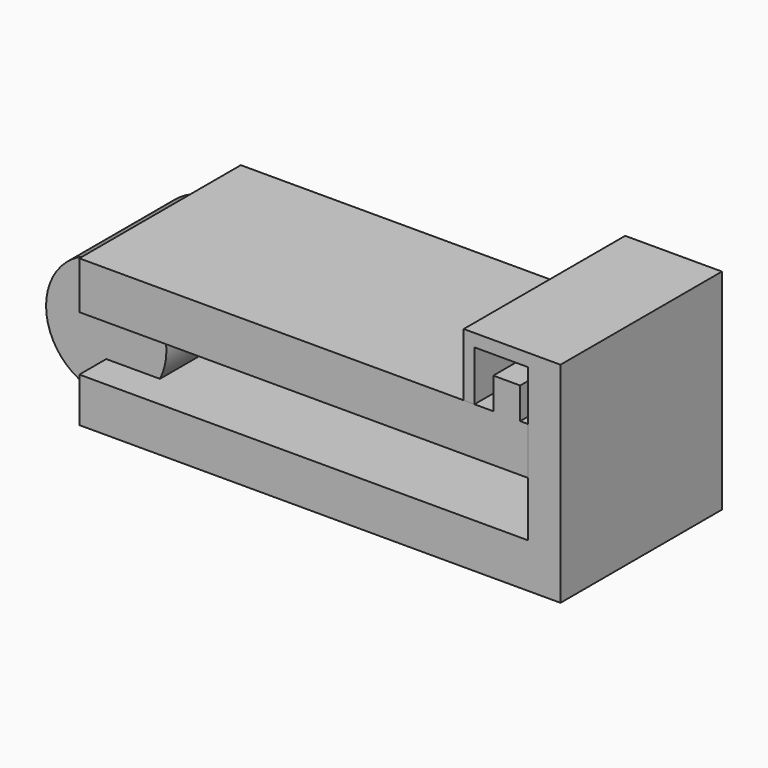
from build123d import *

# Parameters (mm, degrees)
F1_DEPTH = 12.7
F0_W     = 10.1497806609
F0_H     = 2.3909639567
F0_W_2   = 6.0898587108
F2_DEPTH = 19.05
F0_W_3   = 5.0748903304
F0_H_2   = 5.9276018292
F3_DEPTH = 19.05


with BuildPart() as f1:
    # F0 (on Front) → F1 (new body, symmetric)
    with BuildSketch(Plane.XZ):
        with BuildLine():
            ThreePointArc((-48.2114478946, 16.5032624805), (-59.5725855396, 5.1421248354), (-48.2114478946, -6.2190128097))
            Line((-48.2114478946, -6.2190128097), (-48.2114478946, 0))
            Line((-48.2114478946, 0), (-38.0806038642, 0))
            ThreePointArc((-38.0806038642, 0), (-37.1621637078, 2.49849711), (-36.8503102495, 5.1421248354))
            ThreePointArc((-36.8503102495, 5.1421248354), (-37.1740146519, 7.8348030569), (-38.1266817241, 10.3740403429))
            Line((-38.1266817241, 10.3740403429), (-48.2114478946, 10.3740403429))
            Line((-48.2114478946, 10.3740403429), (-48.2114478946, 16.5032624805))
        make_face()
    extrude(amount=F1_DEPTH, both=True)

    # F0 (on Front) → F2 (join, symmetric)
    with BuildSketch(Plane.XZ):
        with BuildLine():
            Line((-48.2114478946, -6.2190128097), (-48.2114478946, -8.4030567668))
            Line((-48.2114478946, -8.4030567668), (36.5392118692, -8.4030567668))
            Line((36.5392118692, -8.4030567668), (36.5392118692, 0))
            Line((36.5392118692, 0), (-38.0806038642, 0))
            ThreePointArc((-38.0806038642, 0), (-42.2677512104, -4.5402260319), (-48.2114478946, -6.2190128097))
        make_face()
        Polygon((36.5392118692, 0), (36.5392118692, -8.4030567668), (42.62907058, -8.4030567668), (42.62907058, 28.7860110402), (36.5392118692, 28.7860110402), (36.5392118692, 19.3217713386), (36.5392118692, 10.3740403429), align=None)
        with Locations((31.4643215388, 29.9814930186)):
            Rectangle(F0_W, F0_H)
        with Locations((39.5841412246, 29.9814930186)):
            Rectangle(F0_W_2, F0_H)
        Polygon((24.359472096, 31.1769749969), (24.359472096, 19.3217713386), (26.3894312084, 19.3217713386), (26.3894312084, 28.7860110402), (26.3894312084, 31.1769749969), align=None)
        with BuildLine():
            Line((-48.2114478946, 0), (-48.2114478946, -6.2190128097))
            ThreePointArc((-48.2114478946, -6.2190128097), (-42.2677512104, -4.5402260319), (-38.0806038642, 0))
            Line((-38.0806038642, 0), (-48.2114478946, 0))
        make_face()
    extrude(amount=F2_DEPTH, both=True)


with BuildPart() as f3:
    # F0 (on Front) → F3 (new body, symmetric)
    with BuildSketch(Plane.XZ):
        with BuildLine():
            Line((-48.2114478946, 19.3217713386), (-48.2114478946, 16.5032624805))
            ThreePointArc((-48.2114478946, 16.5032624805), (-42.3108150318, 14.8507797581), (-38.1266817241, 10.3740403429))
            Line((-38.1266817241, 10.3740403429), (36.5392118692, 10.3740403429))
            Line((36.5392118692, 10.3740403429), (36.5392118692, 19.3217713386))
            Line((36.5392118692, 19.3217713386), (35.0167416036, 19.3217713386))
            Line((35.0167416036, 19.3217713386), (29.9418512732, 19.3217713386))
            Line((29.9418512732, 19.3217713386), (26.3894312084, 19.3217713386))
            Line((26.3894312084, 19.3217713386), (24.359472096, 19.3217713386))
            Line((24.359472096, 19.3217713386), (-48.2114478946, 19.3217713386))
        make_face()
        with Locations((32.4792964384, 22.2855722532)):
            Rectangle(F0_W_3, F0_H_2)
        with BuildLine():
            ThreePointArc((-38.1266817241, 10.3740403429), (-42.3108150318, 14.8507797581), (-48.2114478946, 16.5032624805))
            Line((-48.2114478946, 16.5032624805), (-48.2114478946, 10.3740403429))
            Line((-48.2114478946, 10.3740403429), (-38.1266817241, 10.3740403429))
        make_face()
    extrude(amount=F3_DEPTH, both=True)


solid = Compound([f1.part, f3.part])
